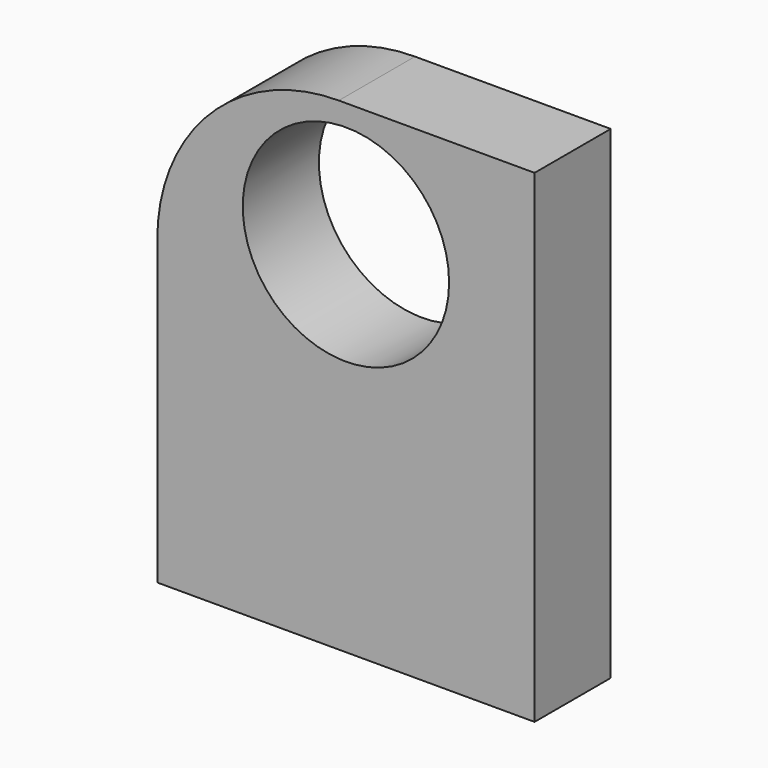
from build123d import *

# Parameters (mm, degrees)
F0_W     = 100.692854
F0_H     = 128.995716
F1_DEPTH = 25.4
F2_R     = 27.534887
F3_DEPTH = 170.942
F4_R     = 48.443609


with BuildPart() as f1:
    # F0 (on Front) → F1 (new body)
    with BuildSketch(Plane.XZ):
        Rectangle(F0_W, F0_H)
    extrude(amount=F1_DEPTH)

    # F2 (on Front) → F3 (cut)
    with BuildSketch(Plane.XZ):
        with Locations((0, 31.296428)):
            Circle(F2_R)
    extrude(amount=F3_DEPTH, mode=Mode.SUBTRACT)

    # F4
    f4_edges = [f1.edges().sort_by_distance(p)[0] for p in [
        (-50.346427, -12.7, 64.497858),
    ]]
    fillet(f4_edges, radius=F4_R)


solid = f1.part
